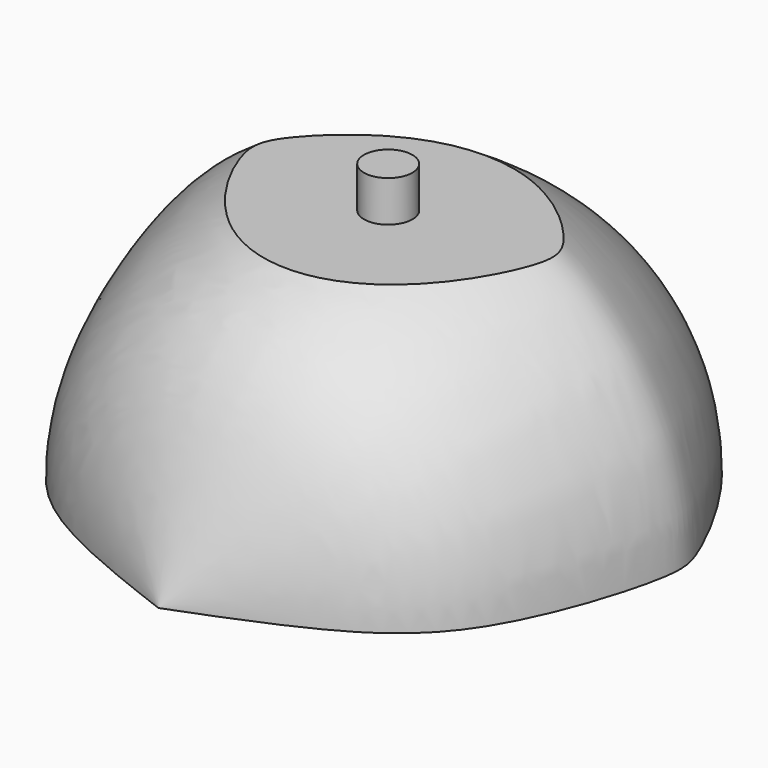
from build123d import *

# Parameters (mm, degrees)
F2_W     = 126.1226348579
F2_H     = 41.0738363862
F2_W_2   = 95.882229507
F2_H_2   = 28.761270456
F3_DEPTH = 25.4
F4_R     = 1.5
F5_DEPTH = 2.54


with BuildPart() as f1:
    # F0 (on Top) → F1 (revolve)
    with BuildSketch(Plane.XY):
        with BuildLine():
            Line((0, -17.7920795977), (0, 15.1420421898))
            add(Edge.make_bspline(
                [(0, 15.1420421898), (-3.3266345491, 15.1660395685), (-10.3432012836, 15.2166550499), (-16.9798857885, 3.2507688533), (-17.4681972374, 0.1800565782), (-14.1186973605, -10.5597484182), (-7.7260639278, -14.8351312564), (-2.5986913336, -16.7974986441), (0, -17.7920795977)],
                knots=[0, 0, 0, 0, 0.1810593521, 0.3818919716, 0.4880171584, 0.6735828531, 0.8345629472, 1, 1, 1, 1], degree=3))
        make_face()
    revolve(axis=Axis((0, -1.3250187039, 0), (0, -1, 0)))

    # F2 (on Front) → F3 (cut, symmetric)
    with BuildSketch(Plane.XZ):
        with Locations((5.4968688637, -20.5369181931)):
            Rectangle(F2_W, F2_H)
        with Locations((1.9811727107, 28.830869589)):
            Rectangle(F2_W_2, F2_H_2)
    extrude(amount=F3_DEPTH, both=True, mode=Mode.SUBTRACT)

    # F4 (on face) → F5 (join)
    with BuildSketch(Plane.XY.offset(14.450234361)):
        Circle(F4_R)
    extrude(amount=F5_DEPTH)


solid = f1.part
